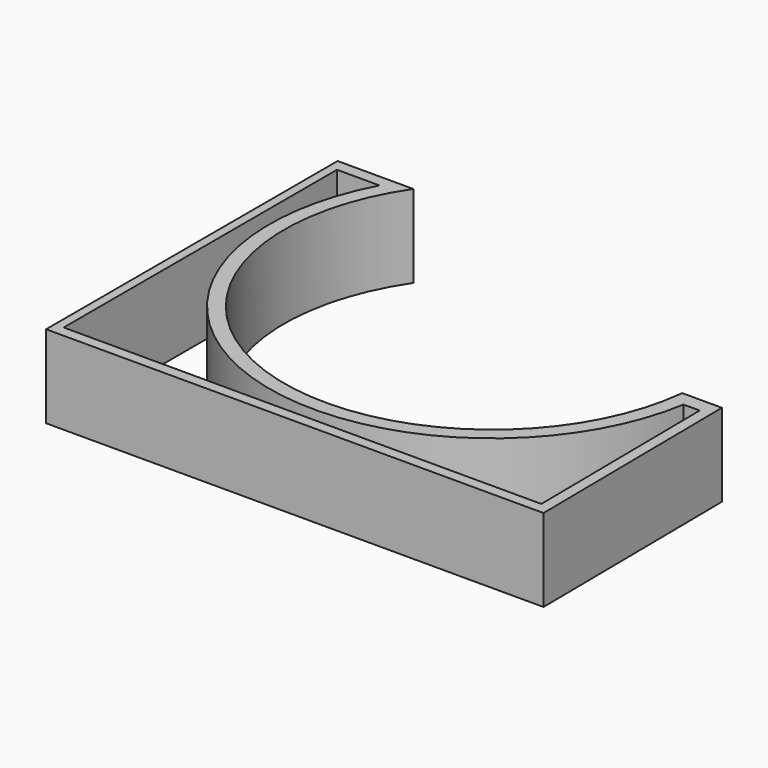
from build123d import *

# Parameters (mm, degrees)
F1_DEPTH = 25.4


with BuildPart() as f1:
    # F0 (on Top) → F1 (new body)
    with BuildSketch(Plane.XY):
        with BuildLine():
            ThreePointArc((63.563785, -6.678384), (-21.893367, -60.046949), (-52.945428, 35.801359))
            Line((-52.945428, 35.801359), (-76.178074, 35.801359))
            Line((-76.178074, 35.801359), (-76.178074, -76.047599))
            Line((-76.178074, -76.047599), (76.504797, -76.047599))
            Line((76.504797, -76.047599), (75.7593, -6.678384))
            Line((75.7593, -6.678384), (63.563785, -6.678384))
        make_face()
        with BuildLine():
            Line((-73.456801, -72.694801), (-73.456801, 32.1564))
            Line((-73.456801, 32.1564), (-60.403486, 32.1564))
            ThreePointArc((-60.403486, 32.1564), (-21.947825, -64.814414), (67.513545, -11.159591))
            Line((67.513545, -11.159591), (72.490117, -11.106109))
            Line((72.490117, -11.106109), (73.151998, -72.694801))
            Line((73.151998, -72.694801), (-73.456801, -72.694801))
        make_face(mode=Mode.SUBTRACT)
    extrude(amount=F1_DEPTH)


solid = f1.part
